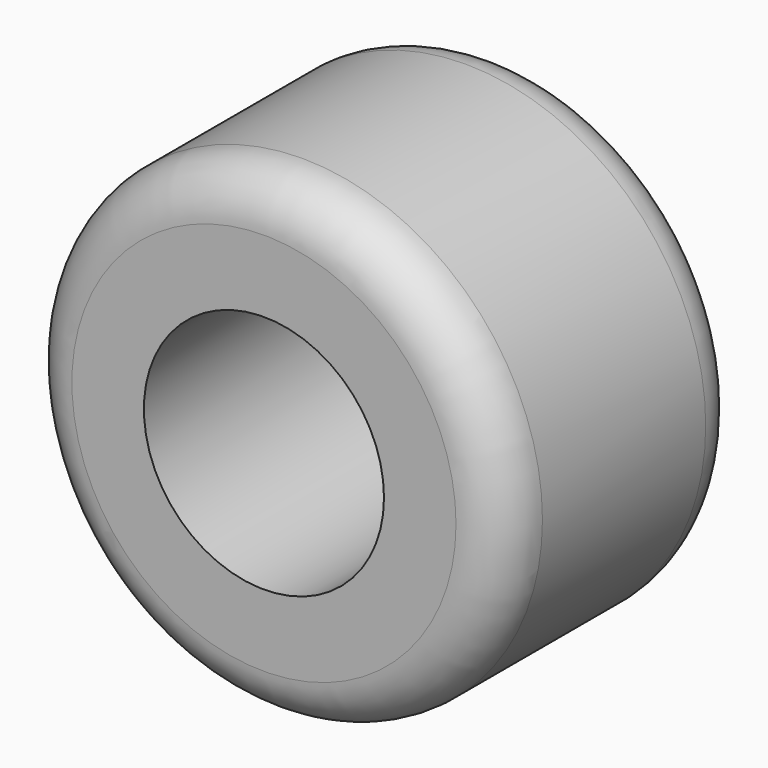
from build123d import *

# Parameters (mm, degrees)
F0_R     = 25.4
F0_R_2   = 12.7
F1_DEPTH = 31.75
F2_R     = 5.08


with BuildPart() as f1:
    # F0 (on Front) → F1 (new body)
    with BuildSketch(Plane.XZ):
        Circle(F0_R)
        Circle(F0_R_2, mode=Mode.SUBTRACT)
    extrude(amount=-F1_DEPTH)

    # F2
    f2_edges = [f1.edges().sort_by_distance(p)[0] for p in [
        (-25.4, 0, 0),
        (-25.4, 31.75, 0),
    ]]
    fillet(f2_edges, radius=F2_R)


solid = f1.part
